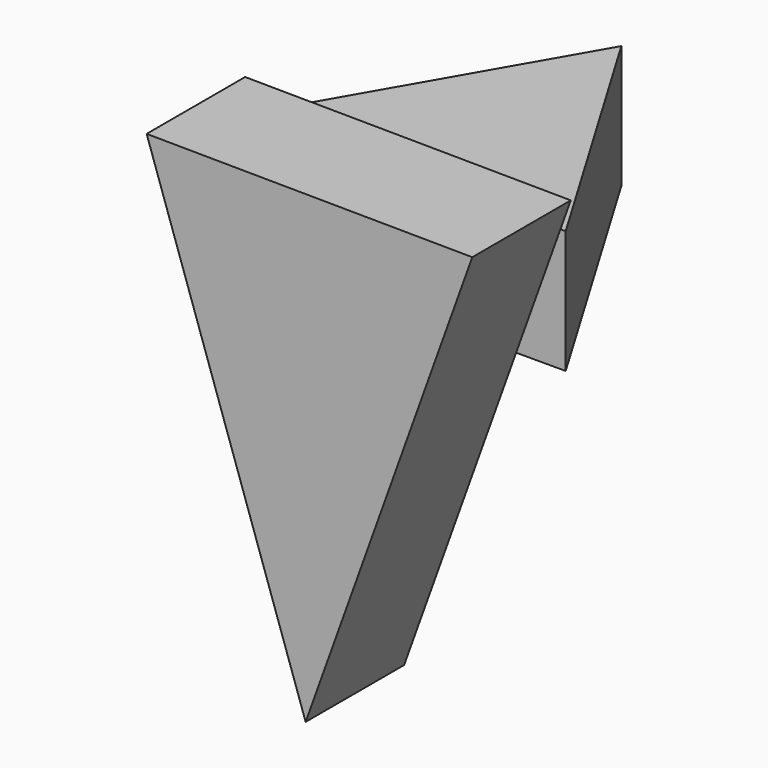
from build123d import *

# Parameters (mm, degrees)
F1_DEPTH = 25.4
F3_DEPTH = 25.4


with BuildPart() as f1:
    # F0 (on Front) → F1 (new body)
    with BuildSketch(Plane.XZ):
        Polygon((34.388635, 31.339901), (-32.805305, 31.894706), (0, -64.263351), align=None)
    extrude(amount=F1_DEPTH)

    # F2 (on Top) → F3 (join)
    with BuildSketch(Plane.XY):
        Polygon((0, 56.035373), (-32.202605, 0), (33.337504, 0), align=None)
    extrude(amount=F3_DEPTH)


solid = f1.part
